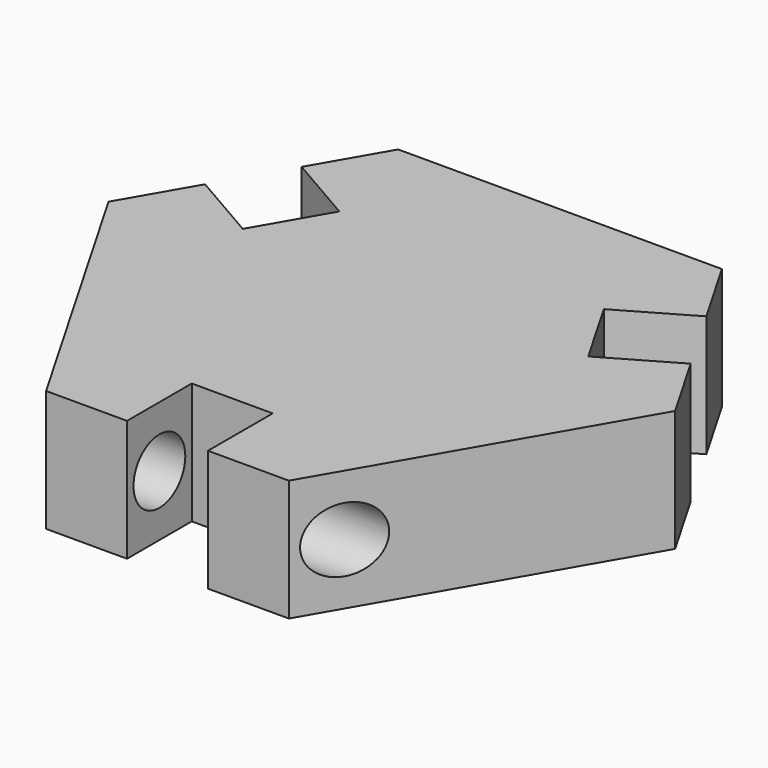
from build123d import *

# Parameters (mm, degrees)
F1_DEPTH      = 15
F2_W          = 10
F2_H          = 20
F3_DEPTH      = 15.001
F4_R          = 4
F5_DEPTH      = 30.001
F5_DEPTH_BACK = 40.001


with BuildPart() as f1:
    # F0 (on Top) → F1 (new body)
    with BuildSketch(Plane.XY):
        Polygon((-20, 28.8675134595), (-35, 2.8867513459), (-15, -31.7542648054), (15, -31.7542648054), (35, 2.8867513459), (20, 28.8675134595), align=None)
    extrude(amount=F1_DEPTH)

    # F2 (on face) → F3 (cut, through all)
    with BuildSketch(Plane.XY.offset(15)):
        with Locations((0, -31.7542648054)):
            Rectangle(F2_W, F2_H)
        Polygon((-38.6602540378, 16.5470053838), (-21.3397459622, 6.5470053838), (-16.3397459622, 15.2072594216), (-33.6602540378, 25.2072594216), align=None)
        Polygon((33.6602540378, 25.2072594216), (16.3397459622, 15.2072594216), (21.3397459622, 6.5470053838), (38.6602540378, 16.5470053838), align=None)
    extrude(amount=-F3_DEPTH, mode=Mode.SUBTRACT)

    # F4 (on face) → F5 (cut, two sides)
    with BuildSketch(Plane.YZ.offset(-5)) as f5_sk:
        with Locations((-26.7542648054, 7.5)):
            Circle(F4_R)
    extrude(amount=-F5_DEPTH, mode=Mode.SUBTRACT)
    extrude(f5_sk.sketch, amount=F5_DEPTH_BACK, mode=Mode.SUBTRACT)


solid = f1.part
